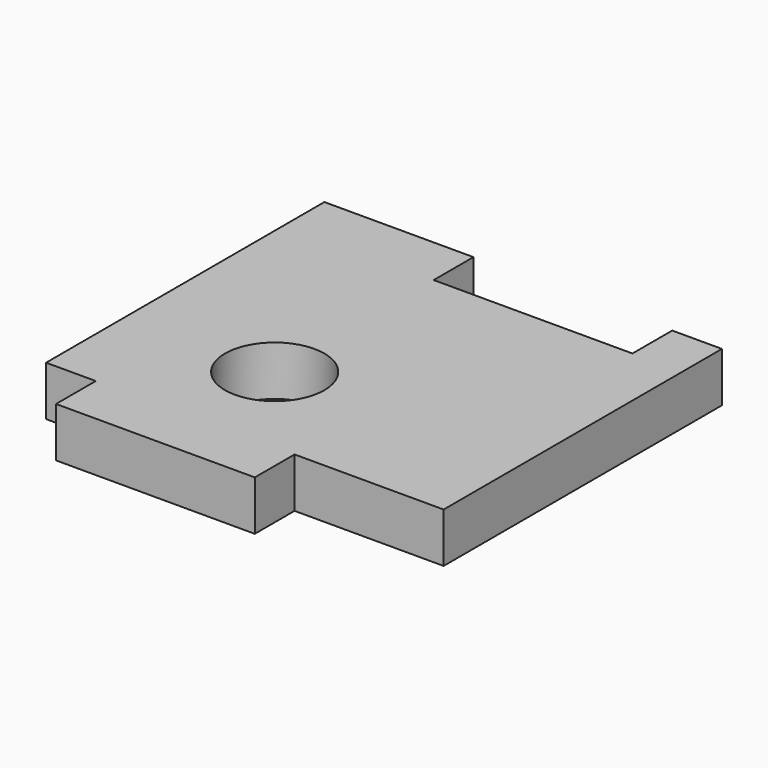
from build123d import *

# Parameters (mm, degrees)
F0_W     = 3.175
F0_H     = 3.175
F0_W_2   = 9.525
F0_R     = 3.175
F1_DEPTH = 3.175


with BuildPart() as f1:
    # F0 (on Top) → F1 (new body)
    with BuildSketch(Plane.XY):
        Polygon((9.525, 9.525), (9.525, -9.525), (15.875, -9.525), (15.875, 9.525), (12.7, 9.525), align=None)
        with Locations((14.2875, 11.1125)):
            Rectangle(F0_W, F0_H)
        with Locations((-4.7625, 11.1125)):
            Rectangle(F0_W_2, F0_H)
        Polygon((6.35, -9.525), (9.525, -9.525), (9.525, 9.525), (0, 9.525), (-9.525, 9.525), (-9.525, -9.525), (-6.35, -9.525), (-6.35, -12.7), (6.35, -12.7), align=None)
        with Locations((0, -3.175)):
            Circle(F0_R, mode=Mode.SUBTRACT)
    extrude(amount=F1_DEPTH)


solid = f1.part
